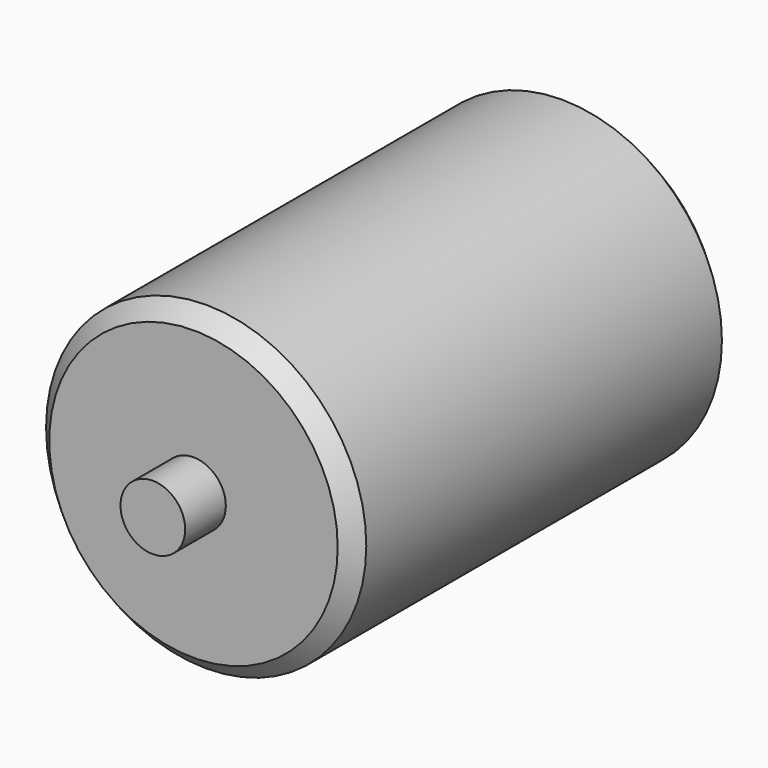
from build123d import *

# Parameters (mm, degrees)
F0_R     = 50.421677
F1_DEPTH = 150
F2_SIZE  = 5
F3_R     = 10.184595
F4_DEPTH = 16
F5_SIZE  = 5
F6_R     = 10.343213
F7_DEPTH = 16


with BuildPart() as f1:
    # F0 (on Front) → F1 (new body)
    with BuildSketch(Plane.XZ):
        Circle(F0_R)
    extrude(amount=F1_DEPTH)

    # F2
    f2_edges = [f1.edges().sort_by_distance(p)[0] for p in [
        (-50.421677, -150, 0),
    ]]
    chamfer(f2_edges, length=F2_SIZE)

    # F3 (on face) → F4 (join)
    with BuildSketch(Plane.XZ.offset(150)):
        Circle(F3_R)
    extrude(amount=F4_DEPTH)

    # F5
    f5_edges = [f1.edges().sort_by_distance(p)[0] for p in [
        (-50.421677, 0, 0),
    ]]
    chamfer(f5_edges, length=F5_SIZE)

    # F6 (on face) → F7 (join)
    with BuildSketch(Plane(origin=(0, 0, 0), x_dir=(-1, 0, 0), z_dir=(0, 1, 0))):
        Circle(F6_R)
    extrude(amount=F7_DEPTH)


solid = f1.part
